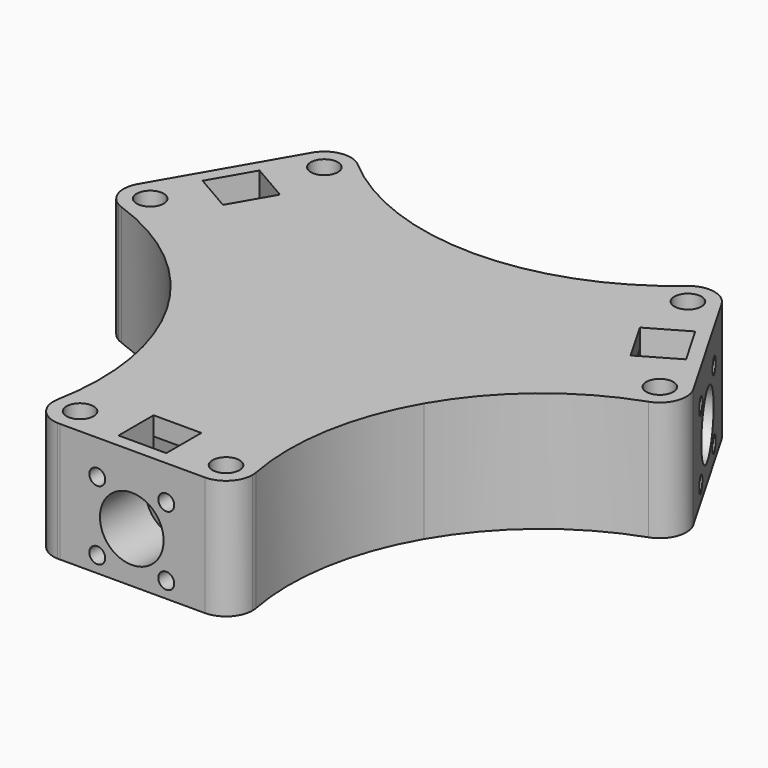
from build123d import *

# Parameters (mm, degrees)
F0_R          = 5.1
F1_DEPTH      = 45
F2_DEPTH      = 2.5
F6_START      = -5
F4_W          = 37
F4_H          = 38
F4_R          = 1.6
F4_R_2        = 12
F6_DEPTH      = 28
F7_DEPTH      = 5
F7_DEPTH_BACK = 16.5
F5_R          = 3
F8_DEPTH      = 16.5
F9_W          = 18
F9_H          = 10
F10_DEPTH     = 19.0834106782
F11_COUNT     = 3
F11_ANGLE     = 480


with BuildPart() as f1:
    # F0 (on Top) → F1 (new body)
    with BuildSketch(Plane.XY):
        with BuildLine():
            Line((48.3891499996, -27.9374887781), (0, 0))
            Line((0, 0), (-48.3891499996, -27.9374887781))
            ThreePointArc((-48.3891499996, -27.9374887781), (-37.0005953155, -59.5433683199), (-37.3249107961, -93.1369036932))
            ThreePointArc((-37.3249107961, -93.1369036932), (-26.5643472762, -85.0438685233), (-17.5, -95))
            ThreePointArc((-17.5, -95), (-20.2732115997, -101.9118397997), (-27.0547058834, -104.9900807379))
            Line((-27.0547058834, -104.9900807379), (27.4981817467, -104.9999998347))
            ThreePointArc((27.4981817467, -104.9999998347), (19.7989254456, -88.6208581527), (37.3249107961, -93.1369036932))
            ThreePointArc((37.3249107961, -93.1369036932), (37.0005953155, -59.5433683199), (48.3891499996, -27.9374887781))
        make_face()
        with BuildLine():
            ThreePointArc((37.5, -95), (37.4561314767, -94.0643472762), (37.3249107961, -93.1369036932))
            ThreePointArc((37.3249107961, -93.1369036932), (19.7989254456, -88.6208581527), (27.4981817467, -104.9999998347))
            ThreePointArc((27.4981817467, -104.9999998347), (34.570424933, -102.0717106323), (37.5, -95))
        make_face()
        with Locations((27.5, -95)):
            Circle(F0_R, mode=Mode.SUBTRACT)
        with BuildLine():
            ThreePointArc((-17.5, -95), (-26.5643472762, -85.0438685233), (-37.3249107961, -93.1369036932))
            ThreePointArc((-37.3249107961, -93.1369036932), (-35.342921879, -101.2039162148), (-27.9489269865, -104.9899181459))
            Line((-27.9489269865, -104.9899181459), (-27.0547058834, -104.9900807379))
            ThreePointArc((-27.0547058834, -104.9900807379), (-20.2732115997, -101.9118397997), (-17.5, -95))
        make_face()
        with Locations((-27.5, -95)):
            Circle(F0_R, mode=Mode.SUBTRACT)
    extrude(amount=F1_DEPTH)

    # F0 (on Top) → F2 (join)
    with BuildSketch(Plane.XY):
        with Locations((27.5, -95)):
            Circle(F0_R)
        with Locations((-27.5, -95)):
            Circle(F0_R)
    extrude(amount=F2_DEPTH)

    # F4 (on offset) → F6 (cut)
    with BuildSketch(Plane(origin=(-0.016090632, -88.4949967703, 0), x_dir=(0.9999999835, -0.0001818253, 0), z_dir=(-0.0001818253, -0.9999999835, 0)).offset(F6_START)):
        with Locations((0, 19)):
            Rectangle(F4_W, F4_H)
        with Locations((-13, 6)):
            Circle(F4_R, mode=Mode.SUBTRACT)
        with Locations((13, 6)):
            Circle(F4_R, mode=Mode.SUBTRACT)
        with Locations((-13, 32)):
            Circle(F4_R, mode=Mode.SUBTRACT)
        with Locations((0, 19)):
            Circle(F4_R_2, mode=Mode.SUBTRACT)
        with Locations((13, 32)):
            Circle(F4_R, mode=Mode.SUBTRACT)
        with Locations((0, 19)):
            Circle(F4_R_2)
        with Locations((-13, 32)):
            Circle(F4_R)
        with Locations((13, 32)):
            Circle(F4_R)
        with Locations((13, 6)):
            Circle(F4_R)
        with Locations((-13, 6)):
            Circle(F4_R)
    extrude(amount=-F6_DEPTH, mode=Mode.SUBTRACT)

    # F4 (on offset) → F7 (cut, two sides)
    with BuildSketch(Plane(origin=(-0.016090632, -88.4949967703, 0), x_dir=(0.9999999835, -0.0001818253, 0), z_dir=(-0.0001818253, -0.9999999835, 0))) as f7_sk:
        with Locations((0, 19)):
            Circle(F4_R_2)
        with Locations((-13, 32)):
            Circle(F4_R)
        with Locations((13, 32)):
            Circle(F4_R)
        with Locations((-13, 6)):
            Circle(F4_R)
        with Locations((13, 6)):
            Circle(F4_R)
    extrude(amount=-F7_DEPTH, mode=Mode.SUBTRACT)
    extrude(f7_sk.sketch, amount=F7_DEPTH_BACK, mode=Mode.SUBTRACT)

    # F5 (on face) → F8 (cut)
    with BuildSketch(Plane(origin=(-0.0190907499, -104.9949964975, 0), x_dir=(0.9999999835, -0.0001818253, 0), z_dir=(-0.0001818253, -0.9999999835, 0))):
        with Locations((-13, 32)):
            Circle(F5_R)
        with Locations((13, 32)):
            Circle(F5_R)
        with Locations((13, 6)):
            Circle(F5_R)
        with Locations((-13, 6)):
            Circle(F5_R)
    extrude(amount=-F8_DEPTH, mode=Mode.SUBTRACT)

    # F9 (on face) → F10 (cut, up to face)
    with BuildSketch(Plane.XY.offset(45)):
        Polygon((9, -83.4966360413), (-9, -83.4933631854), (-9, -90), (9, -90), align=None)
        with Locations((0, -95)):
            Rectangle(F9_W, F9_H)
    extrude(amount=-F10_DEPTH, mode=Mode.SUBTRACT)

    # F11: F1 ×3 about axis
    f11_axis = Axis((0, 0, 0), (0, 0, 1))


with BuildPart() as f1_1:
    add(f1.part)
    for i in range(1, F11_COUNT):
        add(f1.part.rotate(f11_axis, i * F11_ANGLE / (F11_COUNT - 1)))


solid = f1_1.part
